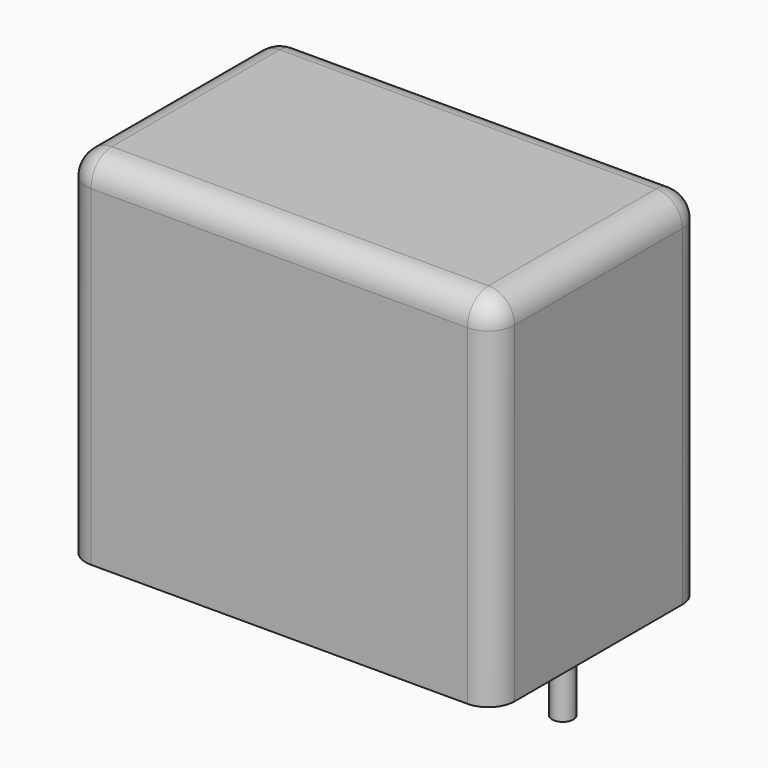
from build123d import *

# Parameters (mm, degrees)
SKETCH_W     = 18
SKETCH_H     = 11
PAD_DEPTH    = 15
FILLET_R     = 1.1
SKETCH001_R  = 0.45
PAD001_DEPTH = 3.2


with BuildPart() as fillet_body:
    # Sketch → Pad (new body)
    with BuildSketch(Plane.XY.offset(0.1)):
        with Locations((7.5, 0)):
            Rectangle(SKETCH_W, SKETCH_H)
    extrude(amount=PAD_DEPTH)

    # Fillet
    fillet_edges = [fillet_body.edges().sort_by_distance(p)[0] for p in [
        (-1.5, 0, 15.1),
        (-1.5, -5.5, 7.6),
        (7.5, -5.5, 15.1),
        (16.5, -5.5, 7.6),
        (16.5, 0, 15.1),
        (16.5, 5.5, 7.6),
        (7.5, 5.5, 15.1),
        (-1.5, 5.5, 7.6),
    ]]
    fillet(fillet_edges, radius=FILLET_R)


with BuildPart() as pad001:
    # Sketch001 → Pad001 (new body)
    with BuildSketch(Plane.XY.offset(0.5)):
        Circle(SKETCH001_R)
        with Locations((15, 0)):
            Circle(SKETCH001_R)
    extrude(amount=-PAD001_DEPTH)


solid = Compound([fillet_body.part, pad001.part])
